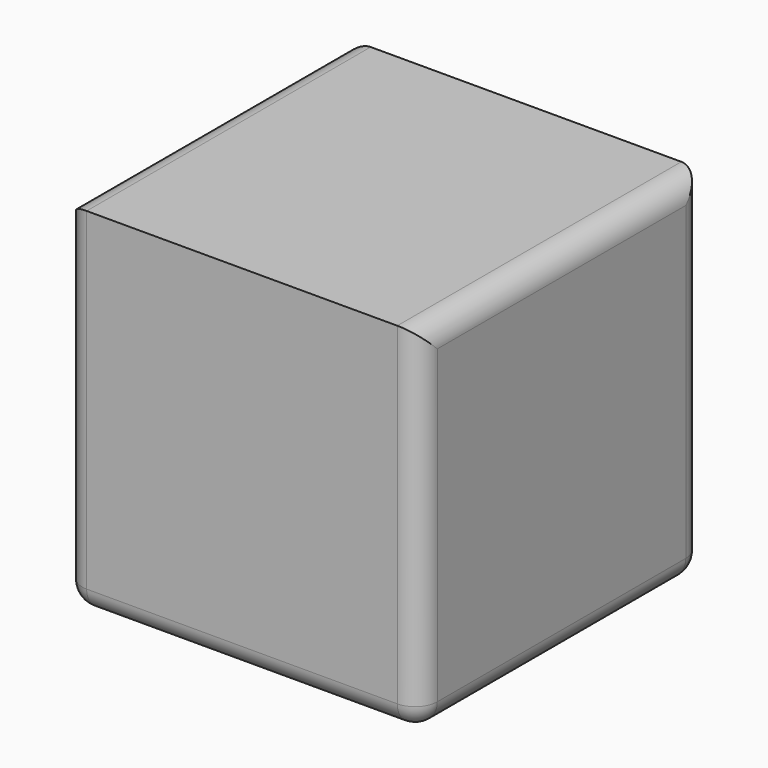
from build123d import *

# Parameters (mm, degrees)
F0_W     = 80
F0_H     = 80
F1_DEPTH = 80
F2_R     = 5


with BuildPart() as f1:
    # F0 (on Top) → F1 (new body)
    with BuildSketch(Plane.XY):
        Rectangle(F0_W, F0_H)
    extrude(amount=F1_DEPTH)

    # F2
    f2_edges = [f1.edges().sort_by_distance(p)[0] for p in [
        (-40, 40, 40),
        (-40, -40, 40),
        (-40, 0, 0),
        (-40, 0, 80),
        (0, 40, 0),
        (0, -40, 0),
        (40, 0, 0),
        (40, -40, 40),
        (40, 40, 40),
        (40, 0, 80),
    ]]
    fillet(f2_edges, radius=F2_R)


solid = f1.part
